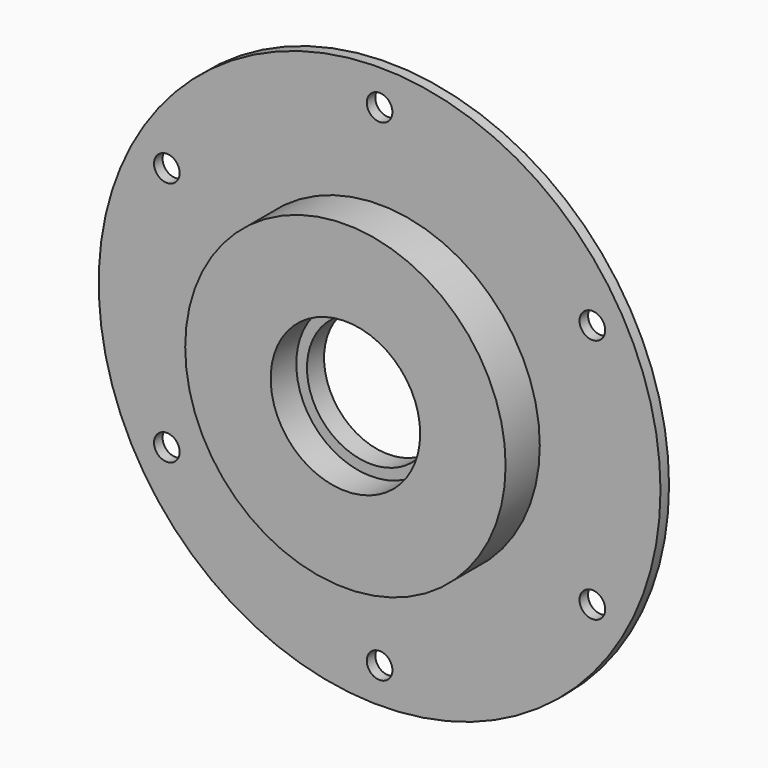
from build123d import *

# Parameters (mm, degrees)
F0_R     = 131.5
F0_R_2   = 6
F0_R_3   = 75
F1_DEPTH = 5
F0_R_4   = 35
F2_DEPTH = 25
F0_R_5   = 30
F3_DEPTH = 10


with BuildPart() as f1:
    # F0 (on Front) → F1 (new body)
    with BuildSketch(Plane.XZ):
        Circle(F0_R)
        with Locations((-99.592921, -57.5)):
            Circle(F0_R_2, mode=Mode.SUBTRACT)
        with Locations((0, -115)):
            Circle(F0_R_2, mode=Mode.SUBTRACT)
        with Locations((99.592921, -57.5)):
            Circle(F0_R_2, mode=Mode.SUBTRACT)
        with Locations((-99.592921, 57.5)):
            Circle(F0_R_2, mode=Mode.SUBTRACT)
        Circle(F0_R_3, mode=Mode.SUBTRACT)
        with Locations((99.592921, 57.5)):
            Circle(F0_R_2, mode=Mode.SUBTRACT)
        with Locations((0, 115)):
            Circle(F0_R_2, mode=Mode.SUBTRACT)
        Circle(F0_R)
        with Locations((-99.592921, -57.5)):
            Circle(F0_R_2, mode=Mode.SUBTRACT)
        with Locations((0, -115)):
            Circle(F0_R_2, mode=Mode.SUBTRACT)
        with Locations((99.592921, -57.5)):
            Circle(F0_R_2, mode=Mode.SUBTRACT)
        with Locations((-99.592921, 57.5)):
            Circle(F0_R_2, mode=Mode.SUBTRACT)
        Circle(F0_R_3, mode=Mode.SUBTRACT)
        with Locations((99.592921, 57.5)):
            Circle(F0_R_2, mode=Mode.SUBTRACT)
        with Locations((0, 115)):
            Circle(F0_R_2, mode=Mode.SUBTRACT)
        Circle(F0_R)
        with Locations((-99.592921, -57.5)):
            Circle(F0_R_2, mode=Mode.SUBTRACT)
        with Locations((0, -115)):
            Circle(F0_R_2, mode=Mode.SUBTRACT)
        with Locations((99.592921, -57.5)):
            Circle(F0_R_2, mode=Mode.SUBTRACT)
        with Locations((-99.592921, 57.5)):
            Circle(F0_R_2, mode=Mode.SUBTRACT)
        Circle(F0_R_3, mode=Mode.SUBTRACT)
        with Locations((99.592921, 57.5)):
            Circle(F0_R_2, mode=Mode.SUBTRACT)
        with Locations((0, 115)):
            Circle(F0_R_2, mode=Mode.SUBTRACT)
        Circle(F0_R)
        with Locations((-99.592921, -57.5)):
            Circle(F0_R_2, mode=Mode.SUBTRACT)
        with Locations((0, -115)):
            Circle(F0_R_2, mode=Mode.SUBTRACT)
        with Locations((99.592921, -57.5)):
            Circle(F0_R_2, mode=Mode.SUBTRACT)
        with Locations((-99.592921, 57.5)):
            Circle(F0_R_2, mode=Mode.SUBTRACT)
        Circle(F0_R_3, mode=Mode.SUBTRACT)
        with Locations((99.592921, 57.5)):
            Circle(F0_R_2, mode=Mode.SUBTRACT)
        with Locations((0, 115)):
            Circle(F0_R_2, mode=Mode.SUBTRACT)
    extrude(amount=F1_DEPTH)

    # F0 (on Front) → F2 (join)
    with BuildSketch(Plane.XZ):
        Circle(F0_R_3)
        Circle(F0_R_4, mode=Mode.SUBTRACT)
    extrude(amount=F2_DEPTH)

    # F0 (on Front) → F3 (join)
    with BuildSketch(Plane.XZ):
        Circle(F0_R_4)
        Circle(F0_R_5, mode=Mode.SUBTRACT)
    extrude(amount=F3_DEPTH)


solid = f1.part
